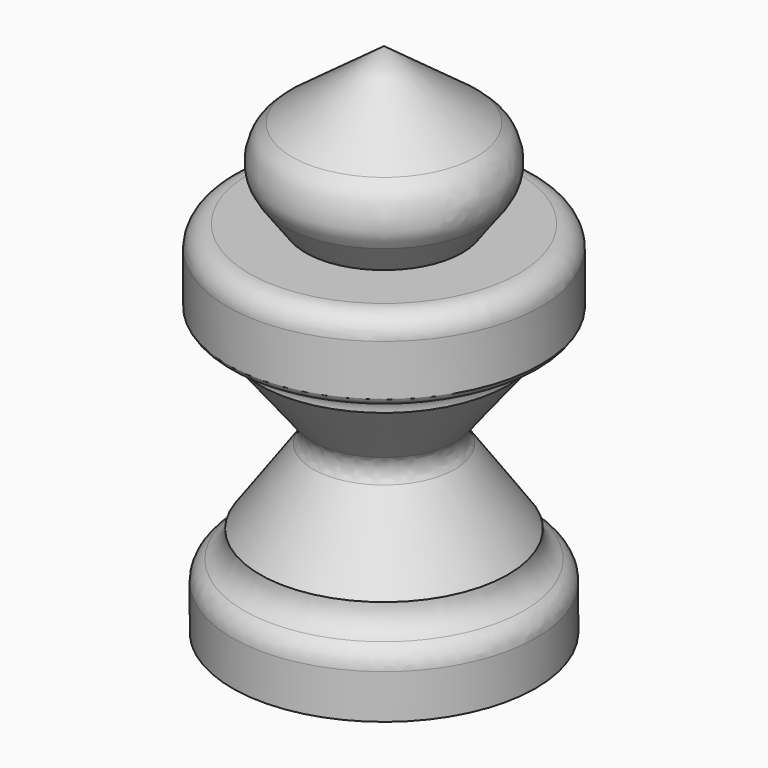
from build123d import *

# Parameters (mm, degrees)
F2_R = 2.172792
F3_R = 2.016112
F4_R = 2.27312
F5_R = 4.112477


with BuildPart() as f1:
    # F0 (on Front) → F1 (revolve)
    with BuildSketch(Plane.XZ):
        with BuildLine():
            Line((0, 50.995532), (0, 0))
            Line((0, 0), (15, 0))
            Line((15, 0), (15, 6))
            ThreePointArc((15, 6), (13.053955, 6.97193), (12.267397, 9))
            Line((12.267397, 9), (6.133698, 17.675072))
            Line((6.133698, 17.675072), (12.267397, 25.46047))
            ThreePointArc((12.267397, 25.46047), (12.767184, 26.84415), (14.117566, 27.427955))
            ThreePointArc((14.117566, 27.427955), (14.943247, 27.672265), (15.503053, 28.326524))
            Line((15.503053, 28.326524), (15.503053, 35.535693))
            Line((15.503053, 35.535693), (7.751526, 35.535693))
            Line((7.751526, 35.535693), (12.401166, 41.87016))
            Line((12.401166, 41.87016), (0, 50.995532))
        make_face()
    revolve(axis=Axis((0, 0, 25.497766), (0, 0, -1)))

    # F2
    f2_edges = [f1.edges().sort_by_distance(p)[0] for p in [
        (-15.503053, 0, 35.535693),
    ]]
    fillet(f2_edges, radius=F2_R)

    # F3
    f3_edges = [f1.edges().sort_by_distance(p)[0] for p in [
        (-6.133698, 0, 17.675072),
    ]]
    fillet(f3_edges, radius=F3_R)

    # F4
    f4_edges = [f1.edges().sort_by_distance(p)[0] for p in [
        (-15, 0, 6),
    ]]
    fillet(f4_edges, radius=F4_R)

    # F5
    f5_edges = [f1.edges().sort_by_distance(p)[0] for p in [
        (-12.401166, 0, 41.87016),
    ]]
    fillet(f5_edges, radius=F5_R)


solid = f1.part
